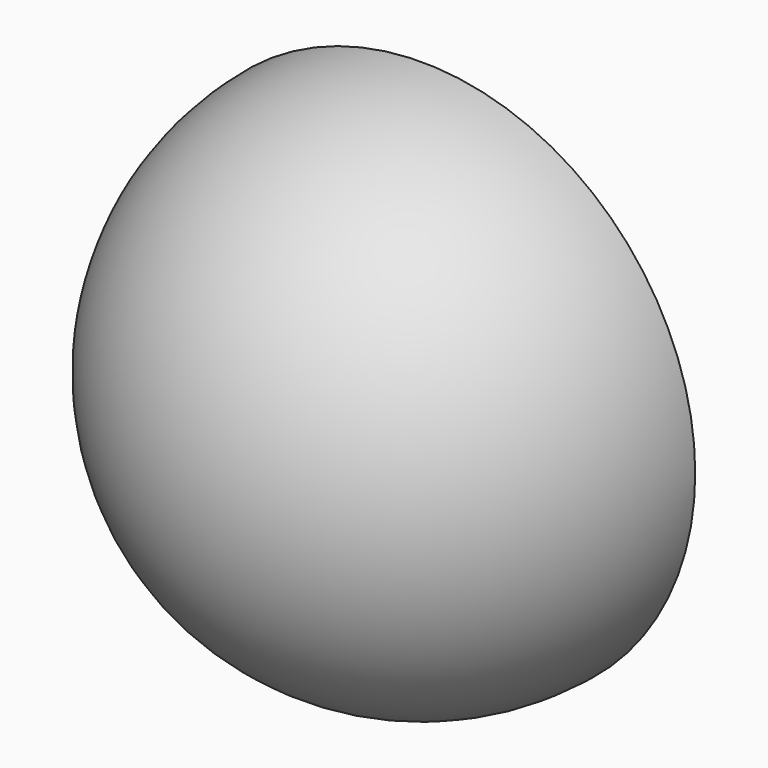
from build123d import *

# Parameters (mm, degrees)
F4_W     = 60
F4_H     = 60
F5_DEPTH = 30
F6_R     = 1.5
F7_DEPTH = 4
F8_R     = 0.3
F9_R     = 0.3


with BuildPart() as f3:
    # F0 (on Front) → F3 (revolve)
    with BuildSketch(Plane.XZ):
        with BuildLine():
            Line((-20, 0), (-25, 0))
            ThreePointArc((-25, 0), (0, -25), (25, 0))
            Line((25, 0), (20, 0))
            ThreePointArc((20, 0), (0, -20), (-20, 0))
        make_face()
    revolve(axis=Axis((0.232987, 0, 0), (1, 0, 0)))

    # F4 (on Front) → F5 (cut)
    with BuildSketch(Plane.XZ):
        Rectangle(F4_W, F4_H)
    extrude(amount=-F5_DEPTH, mode=Mode.SUBTRACT)

    # F6 (on face) → F7 (cut)
    with BuildSketch(Plane(origin=(0, 0, 0), x_dir=(-1, 0, 0), z_dir=(0, 1, 0))):
        with Locations((-22.5, 0)):
            Circle(F6_R)
        with Locations((0, -22.5)):
            Circle(F6_R)
        with Locations((0, 22.5)):
            Circle(F6_R)
        with Locations((22.5, 0)):
            Circle(F6_R)
    extrude(amount=-F7_DEPTH, mode=Mode.SUBTRACT)

    # F8
    f8_edges = [f3.edges().sort_by_distance(p)[0] for p in [
        (-21, 0, 0),
        (1.5, 0, 22.5),
        (1.5, 0, -22.5),
        (24, 0, 0),
    ]]
    fillet(f8_edges, radius=F8_R)

    # F9
    f9_edges = [f3.edges().sort_by_distance(p)[0] for p in [
        (24, -4, 0),
        (-21, -4, 0),
        (1.5, -4, -22.5),
        (1.5, -4, 22.5),
    ]]
    fillet(f9_edges, radius=F9_R)


solid = f3.part
